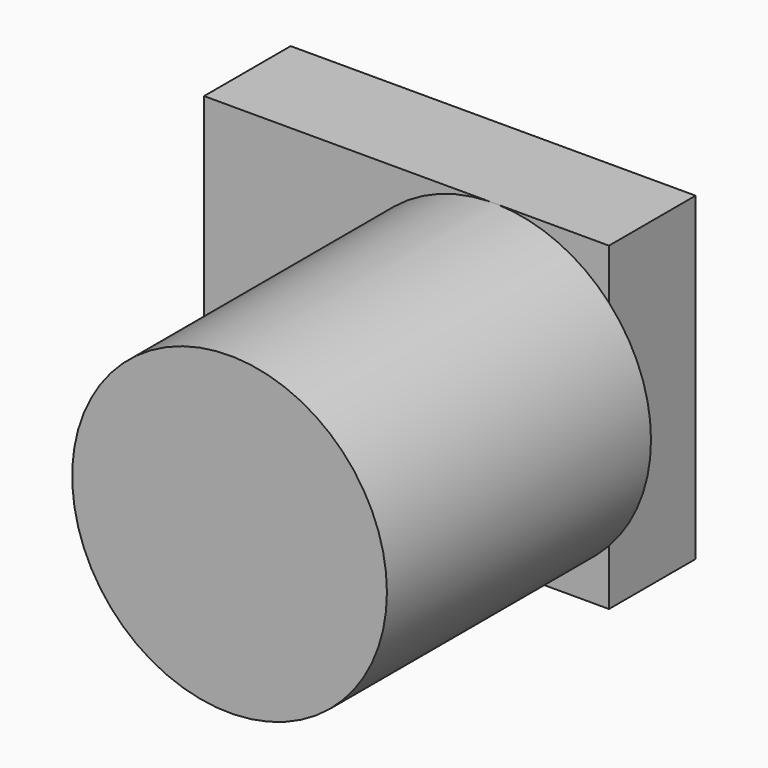
from build123d import *

# Parameters (mm, degrees)
F0_R     = 36.930663
F1_DEPTH = 77.47
F2_W     = 95.02399
F2_H     = 75.079672
F3_DEPTH = 25.4


with BuildPart() as f1:
    # F0 (on Front) → F1 (new body)
    with BuildSketch(Plane.XZ):
        with Locations((4.31927, 0)):
            Circle(F0_R)
    extrude(amount=F1_DEPTH)

    # F2 (on Front) → F3 (join)
    with BuildSketch(Plane.XZ):
        with Locations((-16.125284, -0.623651)):
            Rectangle(F2_W, F2_H)
    extrude(amount=-F3_DEPTH)


solid = f1.part
